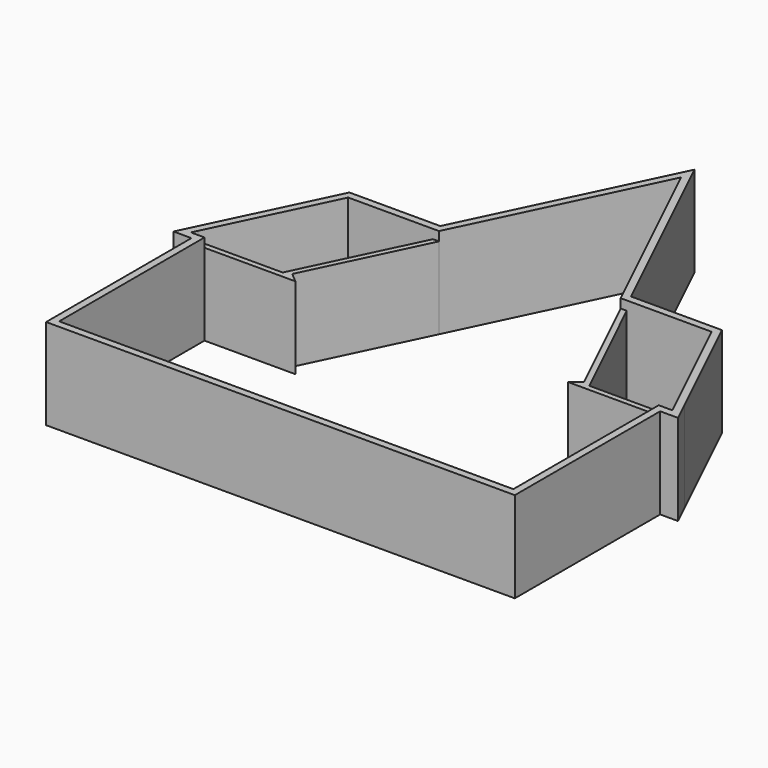
from build123d import *

# Parameters (mm, degrees)
F1_DEPTH = 25.4
F2_DEPTH = 22.86


with BuildPart() as f1:
    # F0 (on Top) → F1 (new body)
    with BuildSketch(Plane.XY):
        Polygon((56.835815, 36.369005), (31.435815, 36.369005), (4.758159, 91.852396), (-21.919497, 36.369005), (-23.4602, 36.369005), (-47.319497, 36.369005), (-63.161859, 3.420533), (-65.783559, -2.032), (-60.773841, -2.032), (-60.773841, -52.832), (70.290159, -52.832), (70.290159, -2.032), (75.299877, -2.032), (72.678177, 3.420533), align=None)
        Polygon((68.258159, -50.8), (-58.741841, -50.8), (-58.741841, 0), (-62.551841, 0), (-61.819068, 1.524), (-46.041841, 34.337005), (-22.332856, 34.337005), (-20.641841, 34.337005), (4.758159, 87.163166), (30.158159, 34.337005), (31.849174, 34.337005), (55.558159, 34.337005), (71.335386, 1.524), (72.068159, 0), (68.258159, 0), align=None, mode=Mode.SUBTRACT)
    extrude(amount=F1_DEPTH)

    # F0 (on Top) → F2 (join)
    with BuildSketch(Plane.XY):
        Polygon((-62.551841, 0), (-58.741841, 0), (-33.341841, 0), (-36.051174, 2.289134), (-20.641841, 34.337005), (-22.332856, 34.337005), (-38.110083, 1.524), (-58.741841, 1.524), (-61.819068, 1.524), align=None)
        Polygon((42.858159, 0), (68.258159, 0), (72.068159, 0), (71.335386, 1.524), (68.258159, 1.524), (47.626401, 1.524), (31.849174, 34.337005), (30.158159, 34.337005), (45.567492, 2.289134), align=None)
    extrude(amount=F2_DEPTH)


solid = f1.part
